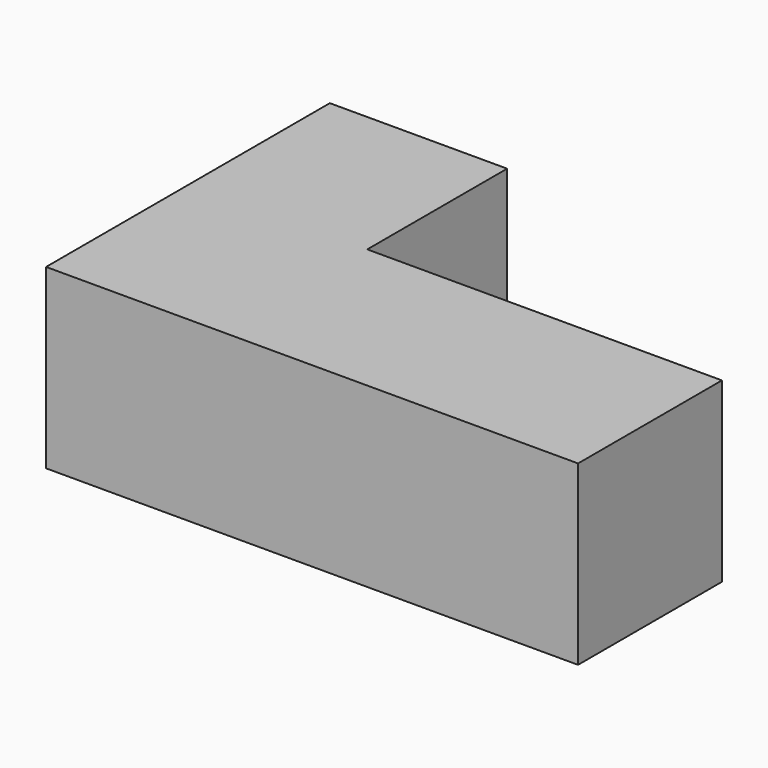
from build123d import *

# Parameters (mm, degrees)
F0_W     = 19.05
F0_H     = 19.318309
F0_H_2   = 18.781691
F0_W_2   = 38.1
F1_DEPTH = 19.05


with BuildPart() as f1:
    # F0 (on Top) → F1 (new body)
    with BuildSketch(Plane.XY):
        with Locations((-9.525, -9.659154)):
            Rectangle(F0_W, F0_H)
        with Locations((-9.525, 9.390845)):
            Rectangle(F0_W, F0_H_2)
        with Locations((19.05, -9.659154)):
            Rectangle(F0_W_2, F0_H)
    extrude(amount=F1_DEPTH)


solid = f1.part
